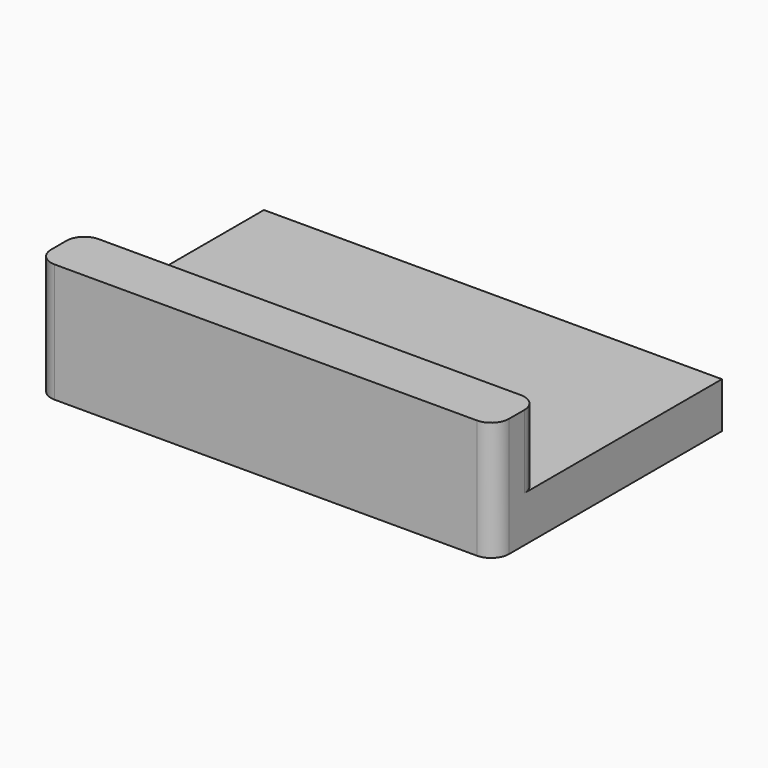
from build123d import *

# Parameters (mm, degrees)
SKETCH002_W  = 10
SKETCH002_H  = 1.2
PAD002_DEPTH = 1.6
SKETCH003_W  = 10
SKETCH003_H  = 6.2
PAD003_DEPTH = 1
FILLET001_R  = 0.39


with BuildPart() as part:
    # Sketch002 → Pad002 (new body)
    with BuildSketch(Plane.XY):
        with Locations((5, -0.6)):
            Rectangle(SKETCH002_W, SKETCH002_H)
    extrude(amount=PAD002_DEPTH)

    # Sketch003 → Pad003 (join)
    with BuildSketch(Plane.XY):
        with Locations((5, 1.9)):
            Rectangle(SKETCH003_W, SKETCH003_H)
    extrude(amount=-PAD003_DEPTH)

    # Fillet001
    fillet001_edges = [part.edges().sort_by_distance(p)[0] for p in [
        (0, -1.2, 0.3),
        (10, -1.2, 0.3),
        (10, 0, 0.8),
        (0, 0, 0.8),
    ]]
    fillet(fillet001_edges, radius=FILLET001_R)


solid = part.part
